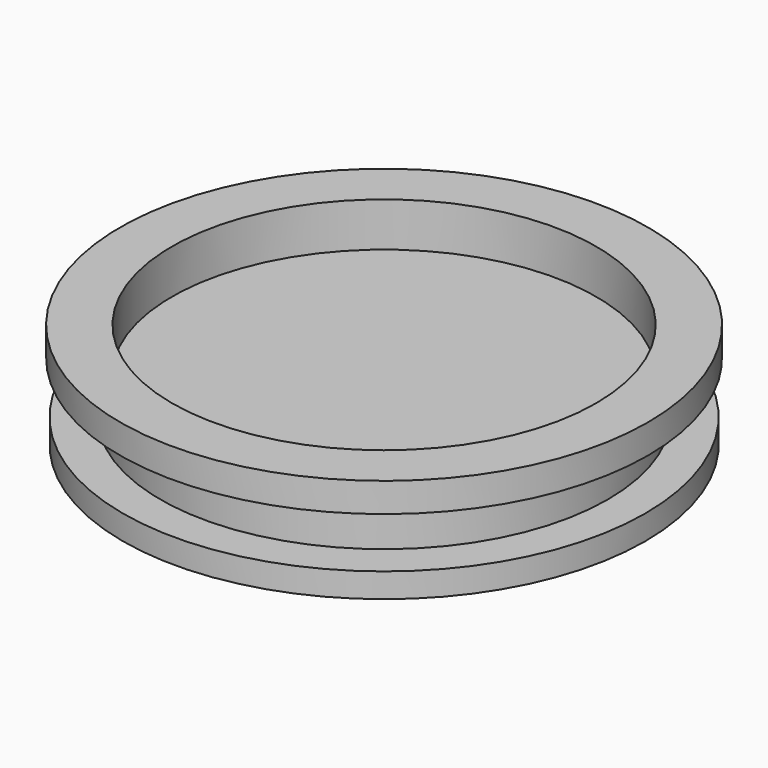
from build123d import *

# Parameters (mm, degrees)
F0_W   = 134.5115825534
F0_H   = 15.5633129179
F0_W_2 = 25.5161747336
F0_H_2 = 18.5351353139
F0_W_3 = 23.8279551268
F0_H_3 = 15.50362329


with BuildPart() as f1:
    # F0 (on Front) → F1 (revolve)
    with BuildSketch(Plane.XZ):
        with Locations((-5.3299926221, 11.8945706636)):
            Rectangle(F0_W, F0_H)
        Polygon((69.2527592182, 29.1677135974), (69.2527592182, 47.7028489113), (61.9257986546, 47.7028489113), (61.9257986546, 19.6762271225), (61.9257986546, 4.1129142046), (61.9257986546, -19.2015636712), (69.2527592182, -19.2015636712), (69.2527592182, -3.6979403812), align=None)
        with Locations((82.010846585, 38.4352812544)):
            Rectangle(F0_W_2, F0_H_2)
        with Locations((81.1667367816, -11.4497520262)):
            Rectangle(F0_W_3, F0_H_3)
    revolve(axis=Axis((-72.5857838988, 0, 11.8945706636), (0, 0, -1)))


solid = f1.part
